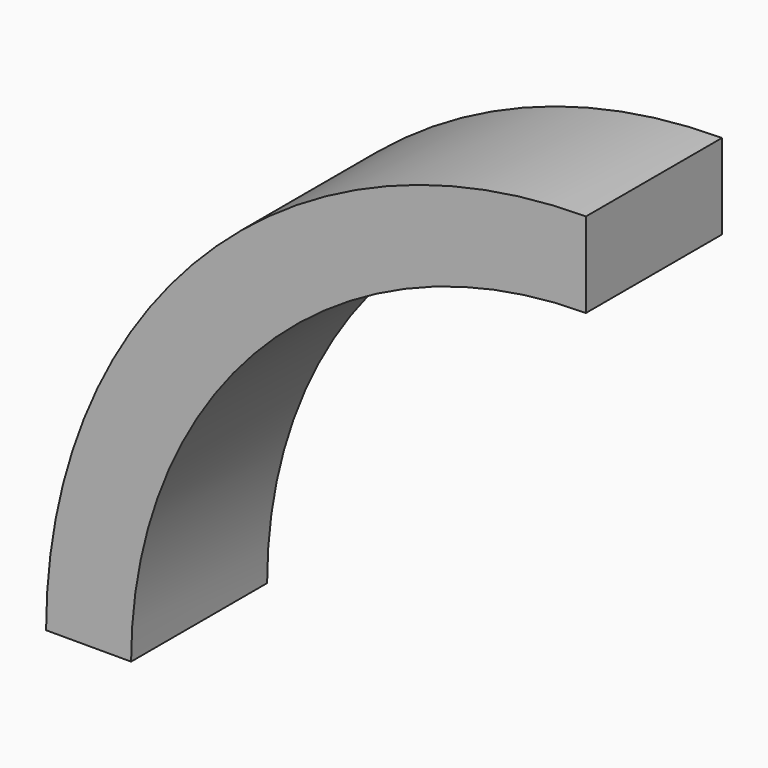
from build123d import *

# Parameters (mm, degrees)
F1_DEPTH      = 2
F1_DEPTH_BACK = 2


with BuildPart() as f1:
    # F0 (on Front) → F1 (new body, two sides)
    with BuildSketch(Plane.XZ) as f1_sk:
        with BuildLine():
            Line((0, 10.7), (0, 12.7))
            ThreePointArc((0, 12.7), (-8.980256, 8.980256), (-12.7, 0))
            Line((-12.7, 0), (-10.7, 0))
            ThreePointArc((-10.7, 0), (-7.566043, 7.566043), (0, 10.7))
        make_face()
    extrude(amount=F1_DEPTH)
    extrude(f1_sk.sketch, amount=-F1_DEPTH_BACK)


solid = f1.part
